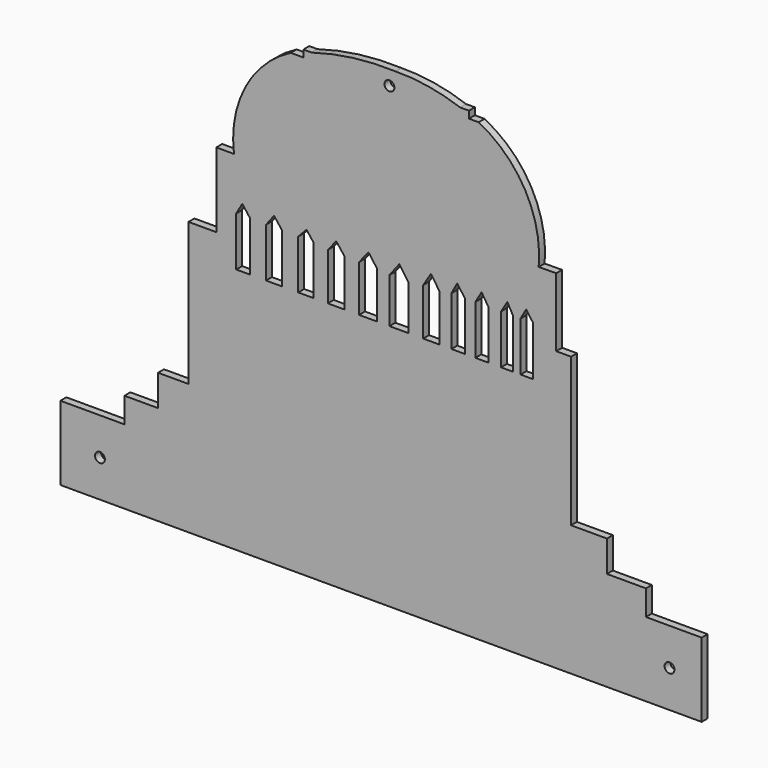
from build123d import *

# Parameters (mm, degrees)
F0_R     = 2
F1_DEPTH = 3


with BuildPart() as f1:
    # F0 (on Front) → F1 (new body)
    with BuildSketch(Plane.XZ):
        Polygon((-116.36717, 91.362698), (-116.36717, 61.206273), (-108.296373, 50.529602), (-108.296373, 70.491589), (-105.836282, 74.723937), (-102.795032, 70.700737), (-102.795032, 50.529602), (-96.265585, 50.529602), (-96.265585, 70.393569), (-93.008241, 74.651143), (-89.701266, 70.393569), (-89.701266, 50.529602), (-83.244497, 50.529602), (-83.244497, 70.423895), (-79.906239, 73.922077), (-77.148117, 70.423895), (-77.148117, 50.529602), (-71.271746, 50.529602), (-71.271746, 69.549546), (-67.90149, 73.764265), (-64.586512, 69.549546), (-64.586512, 50.529602), (-58.640746, 50.529602), (-58.640746, 69.340751), (-54.856984, 74.066021), (-51.358108, 69.340751), (-51.358108, 50.529602), (-46.37086, 50.529602), (-46.37086, 68.703967), (-42.394505, 73.879614), (-38.753841, 68.703967), (-38.753841, 50.529602), (-32.736491, 50.529602), (-32.736491, 69.565687), (-29.575566, 74.61762), (-26.222558, 69.565687), (-26.222558, 50.529602), (-21.325707, 50.529602), (-21.325707, 70.393569), (-18.979074, 74.651143), (-15.930735, 70.393569), (-15.930735, 50.529602), (-11.662976, 50.529602), (-11.662976, 70.393569), (-9.12501, 74.723019), (-6.402003, 70.393569), (-6.402003, 50.529602), (-1.288212, 50.529602), (-1.288212, 70.393569), (1.289989, 74.651143), (3.614716, 70.393569), (3.614716, 50.529602), (6.625234, 50.529602), (6.625234, 70.468216), (8.86461, 74.424437), (11.610716, 70.696345), (11.610716, 50.529602), (15.495674, 50.529602), (21.029814, 63.529602), (21.029814, 91.2588), (13.958036, 91.197406), (-7.926733, 91.007412), (-109.232884, 91.362698), align=None)
        with BuildLine():
            ThreePointArc((-86.268887, 134.798962), (-104.59103, 116.697095), (-109.232884, 91.362698))
            Line((-109.232884, 91.362698), (-7.926733, 91.007412))
            Line((-7.926733, 91.007412), (13.958036, 91.197406))
            ThreePointArc((13.958036, 91.197406), (8.519054, 116.737455), (-10.339861, 134.798962))
            Line((-10.339861, 134.798962), (-14.25776, 134.798962))
            Line((-14.25776, 134.798962), (-14.25776, 137.639998))
            Line((-14.25776, 137.639998), (-17.807812, 137.639998))
            ThreePointArc((-17.807812, 137.639998), (-30.698392, 140.973244), (-43.974803, 141.980461))
            ThreePointArc((-43.974803, 141.980461), (-61.091751, 141.192299), (-77.854575, 137.639998))
            Line((-77.854575, 137.639998), (-81.178934, 137.639998))
            Line((-81.178934, 137.639998), (-81.178934, 134.798962))
            Line((-81.178934, 134.798962), (-86.268887, 134.798962))
        make_face()
        with Locations((-46.382562, 136.033968)):
            Circle(F0_R, mode=Mode.SUBTRACT)
        Polygon((-127.604582, 61.206273), (-127.604582, 3.529602), (27.042171, 3.529602), (27.042171, 63.529602), (21.029814, 63.529602), (15.495674, 50.529602), (11.610716, 50.529602), (6.625234, 50.529602), (3.614716, 50.529602), (-1.288212, 50.529602), (-6.402003, 50.529602), (-11.662976, 50.529602), (-15.930735, 50.529602), (-21.325707, 50.529602), (-26.222558, 50.529602), (-32.736491, 50.529602), (-38.753841, 50.529602), (-46.37086, 50.529602), (-51.358108, 50.529602), (-58.640746, 50.529602), (-64.586512, 50.529602), (-71.271746, 50.529602), (-77.148117, 50.529602), (-83.244497, 50.529602), (-89.701266, 50.529602), (-96.265585, 50.529602), (-102.795032, 50.529602), (-108.296373, 50.529602), (-116.36717, 61.206273), align=None)
        Polygon((-153.489637, -9.072431), (-153.489637, -19.268759), (57.278608, -19.268759), (57.278608, -9.072431), (41.525324, -9.072431), (-139.909211, -9.072431), align=None)
        Polygon((-139.909211, 3.529602), (-139.909211, -9.072431), (41.525324, -9.072431), (41.525324, 3.529602), (27.042171, 3.529602), (-127.604582, 3.529602), align=None)
        Polygon((-153.489637, -19.268759), (-179.380361, -19.268759), (-179.380361, -49.268759), (79.836207, -49.268759), (79.836207, -19.268759), (57.278608, -19.268759), align=None)
        with Locations((-163.380361, -34.268759)):
            Circle(F0_R, mode=Mode.SUBTRACT)
        with Locations((66.836207, -34.268759)):
            Circle(F0_R, mode=Mode.SUBTRACT)
    extrude(amount=F1_DEPTH)


solid = f1.part
